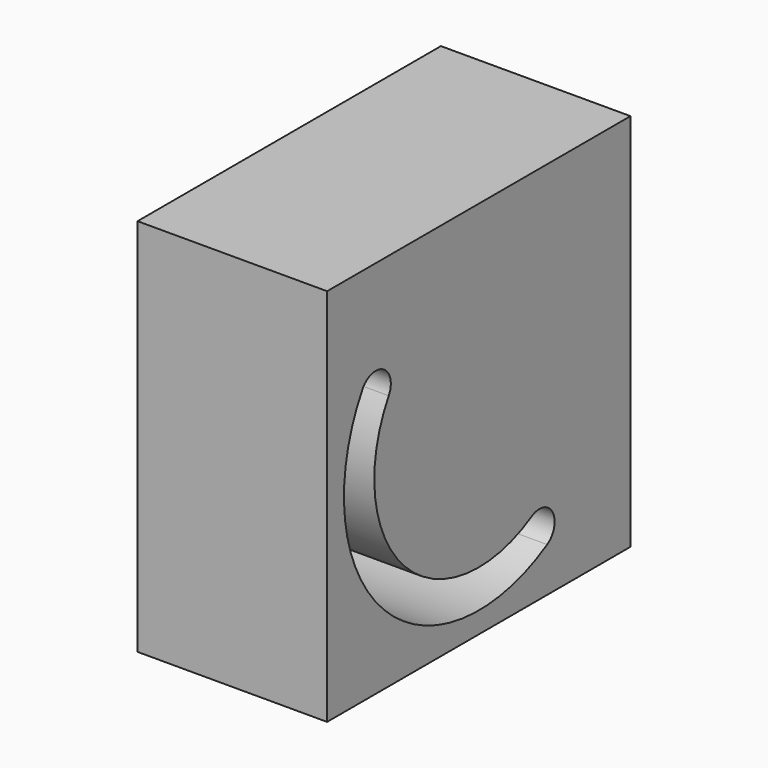
from build123d import *

# Parameters (mm, degrees)
F0_W     = 50
F0_H     = 50
F1_DEPTH = 25
F3_DEPTH = 25


with BuildPart() as f1:
    # F0 (on Right) → F1 (new body)
    with BuildSketch(Plane.YZ):
        Rectangle(F0_W, F0_H)
    extrude(amount=F1_DEPTH)

    # F2 (on face) → F3 (cut)
    with BuildSketch(Plane.YZ.offset(25)):
        with BuildLine():
            ThreePointArc((8.73245, -14.845164), (-12.178559, -12.178559), (-14.845164, 8.73245))
            ThreePointArc((-14.845164, 8.73245), (-15.73245, 12.154836), (-19.154836, 11.26755))
            ThreePointArc((-19.154836, 11.26755), (-15.714093, -15.714093), (11.26755, -19.154836))
            ThreePointArc((11.26755, -19.154836), (12.154836, -15.73245), (8.73245, -14.845164))
        make_face()
    extrude(amount=-F3_DEPTH, mode=Mode.SUBTRACT)


solid = f1.part
